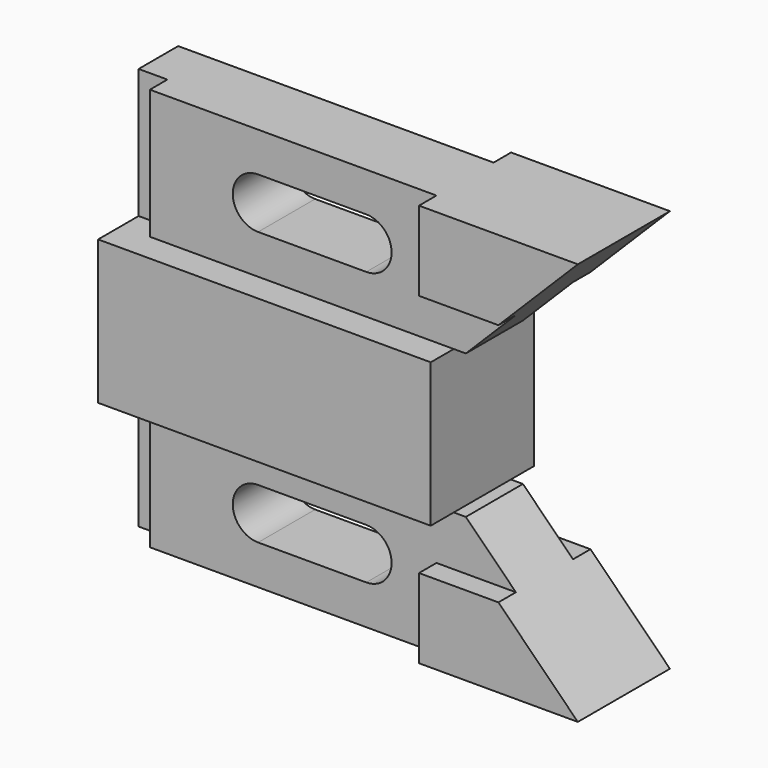
from build123d import *

# Parameters (mm, degrees)
F1_DEPTH      = 6.35
F1_DEPTH_BACK = 22.098
F0_W          = 6.35
F0_H          = 28.575
F2_DEPTH      = 15.748
F3_DEPTH      = 4.826
F3_DEPTH_BACK = 20.574
F4_DEPTH      = 4.826


with BuildPart() as f1:
    # F0 (on Front) → F1 (new body, two sides)
    with BuildSketch(Plane.XZ) as f1_sk:
        Polygon((0, 60.325), (0, 28.575), (6.35, 28.575), (73.406, 28.575), (73.406, 60.325), (6.35, 60.325), align=None)
    extrude(amount=F1_DEPTH)
    extrude(f1_sk.sketch, amount=-F1_DEPTH_BACK)

    # F0 (on Front) → F2 (join)
    with BuildSketch(Plane.XZ):
        Polygon((6.35, 88.9), (6.35, 60.325), (73.406, 60.325), (76.073, 60.325), (87.122, 71.374), (69.596, 71.374), (69.596, 88.9), align=None)
        with BuildLine():
            Line((54.102, 69.0245), (30.226, 69.0245))
            ThreePointArc((30.226, 69.0245), (24.638, 74.6125), (30.226, 80.2005))
            Line((30.226, 80.2005), (54.102, 80.2005))
            ThreePointArc((54.102, 80.2005), (59.69, 74.6125), (54.102, 69.0245))
        make_face(mode=Mode.SUBTRACT)
        with Locations((3.175, 74.6125)):
            Rectangle(F0_W, F0_H)
        with Locations((3.175, 14.2875)):
            Rectangle(F0_W, F0_H)
        Polygon((6.35, 28.575), (6.35, 0), (69.596, 0), (69.596, 17.526), (87.122, 17.526), (76.073, 28.575), (73.406, 28.575), align=None)
        with BuildLine():
            Line((54.102, 8.6995), (30.226, 8.6995))
            ThreePointArc((30.226, 8.6995), (24.638, 14.2875), (30.226, 19.8755))
            Line((30.226, 19.8755), (54.102, 19.8755))
            ThreePointArc((54.102, 19.8755), (59.69, 14.2875), (54.102, 8.6995))
        make_face(mode=Mode.SUBTRACT)
    extrude(amount=-F2_DEPTH)

    # F0 (on Front) → F3 (join, two sides)
    with BuildSketch(Plane.XZ) as f3_sk:
        Polygon((104.648, 88.9), (69.596, 88.9), (69.596, 71.374), (87.122, 71.374), align=None)
        Polygon((69.596, 17.526), (69.596, 0), (104.648, 0), (87.122, 17.526), align=None)
    extrude(amount=F3_DEPTH)
    extrude(f3_sk.sketch, amount=-F3_DEPTH_BACK)

    # F0 (on Front) → F4 (cut)
    with BuildSketch(Plane.XZ):
        with Locations((3.175, 74.6125)):
            Rectangle(F0_W, F0_H)
        with Locations((3.175, 14.2875)):
            Rectangle(F0_W, F0_H)
    extrude(amount=-F4_DEPTH, mode=Mode.SUBTRACT)


solid = f1.part
